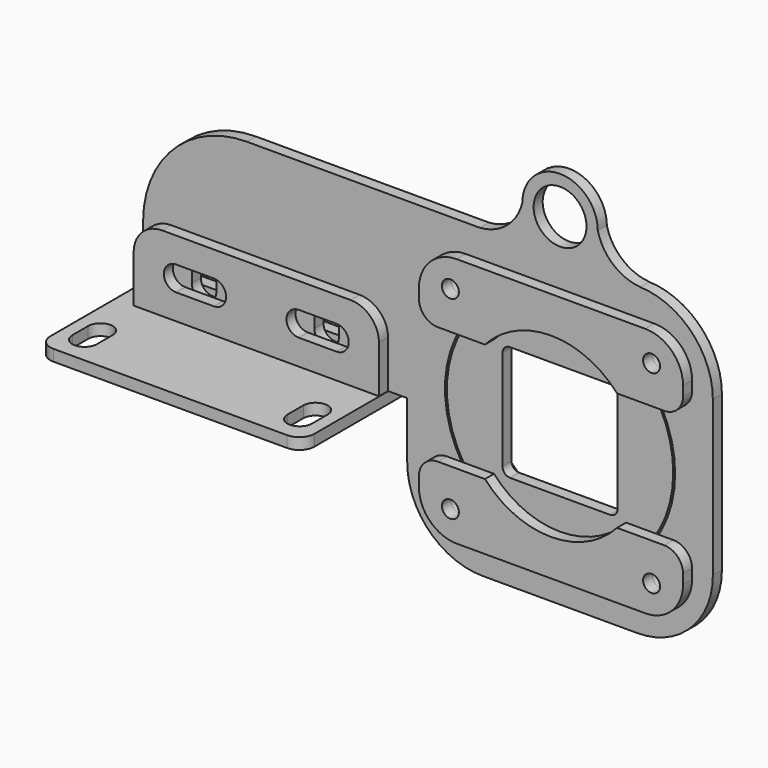
from build123d import *

# Parameters (mm, degrees)
F0_R      = 60
F1_DEPTH  = 6
F2_R      = 61
F2_R_2    = 14
F3_DEPTH  = 6
F4_R      = 4.5
F5_DEPTH  = 6
F6_R      = 4.5
F7_DEPTH  = 25
F8_R      = 4.5
F9_DEPTH  = 6
F11_DEPTH = 6
F13_DEPTH = 25
F15_DEPTH = 6
F17_DEPTH = 6


with BuildPart() as f1:
    # F0 (on Front) → F1 (new body)
    with BuildSketch(Plane.XZ):
        Circle(F0_R)
        with BuildLine():
            Line((-26.5, 30.5), (26.5, 30.5))
            ThreePointArc((26.5, 30.5), (29.3284271247, 29.3284271247), (30.5, 26.5))
            Line((30.5, 26.5), (30.5, -26.5))
            ThreePointArc((30.5, -26.5), (29.3284271247, -29.3284271247), (26.5, -30.5))
            Line((26.5, -30.5), (-26.5, -30.5))
            ThreePointArc((-26.5, -30.5), (-29.3284271247, -29.3284271247), (-30.5, -26.5))
            Line((-30.5, -26.5), (-30.5, 26.5))
            ThreePointArc((-30.5, 26.5), (-29.3284271247, 29.3284271247), (-26.5, 30.5))
        make_face(mode=Mode.SUBTRACT)
    extrude(amount=F1_DEPTH)


with BuildPart() as f3:
    # F2 (on face) → F3 (new body)
    with BuildSketch(Plane.XZ.offset(6)):
        with BuildLine():
            Line((-41, -81), (41, -81))
            ThreePointArc((41, -81), (69.2842712475, -69.2842712475), (81, -41))
            Line((81, -41), (81, 41))
            ThreePointArc((81, 41), (69.7476957532, 68.8131261975), (42.321500556, 80.9781644936))
            ThreePointArc((42.321500556, 80.9781644936), (42.4107748199, 80.9888816235), (42.5, 81))
            ThreePointArc((42.5, 81), (28.1554878166, 86.835444958), (20, 99.9999983537))
            ThreePointArc((20, 99.9999983537), (0, 119.9999983537), (-20, 99.9999983537))
            ThreePointArc((-20, 99.9999983537), (-28.1554878166, 86.835444958), (-42.5, 81))
            Line((-42.5, 81), (-81, 81))
            Line((-81, 81), (-166, 81))
            ThreePointArc((-166, 81), (-204.8908729653, 64.8908729653), (-221, 26))
            Line((-221, 26), (-221, -11))
            Line((-221, -11), (-81, -11))
            Line((-81, -11), (-81, -19))
            Line((-81, -19), (-81, -41))
            ThreePointArc((-81, -41), (-69.2842712475, -69.2842712475), (-41, -81))
        make_face()
        Circle(F2_R, mode=Mode.SUBTRACT)
        with Locations((0, 100)):
            Circle(F2_R_2, mode=Mode.SUBTRACT)
    extrude(amount=-F3_DEPTH)

    # F6 (on face) → F7 (cut)
    with BuildSketch(Plane.XZ.offset(6)):
        with Locations((-53.3166247904, 51.3687742827)):
            Circle(F6_R)
        with Locations((53.3166247904, 51.3687742827)):
            Circle(F6_R)
        with Locations((-53.3166247904, -51.3687742827)):
            Circle(F6_R)
        with Locations((53.3166247904, -51.3687742827)):
            Circle(F6_R)
    extrude(amount=-F7_DEPTH, mode=Mode.SUBTRACT)

    # F12 (on face) → F13 (cut)
    with BuildSketch(Plane.XZ.offset(6)):
        with BuildLine():
            ThreePointArc((-182.1999976635, 21.5), (-188.6999976635, 28), (-195.1999976635, 21.5))
            Line((-195.1999976635, 21.5), (-195.1999976635, 5.5))
            ThreePointArc((-195.1999976635, 5.5), (-188.6999976635, -1), (-182.1999976635, 5.5))
            Line((-182.1999976635, 5.5), (-182.1999976635, 21.5))
        make_face()
        with BuildLine():
            ThreePointArc((-117.1999976635, 21.5), (-123.6999976635, 28), (-130.1999976635, 21.5))
            Line((-130.1999976635, 21.5), (-130.1999976635, 5.5))
            ThreePointArc((-130.1999976635, 5.5), (-123.6999976635, -1), (-117.1999976635, 5.5))
            Line((-117.1999976635, 5.5), (-117.1999976635, 21.5))
        make_face()
    extrude(amount=-F13_DEPTH, mode=Mode.SUBTRACT)


with BuildPart() as f5:
    # F4 (on face) → F5 (new body)
    with BuildSketch(Plane.XZ.offset(6)):
        with BuildLine():
            ThreePointArc((35, -31.3687742827), (0, -47), (-35, -31.3687742827))
            Line((-35, -31.3687742827), (-60, -31.3687742827))
            ThreePointArc((-60, -31.3687742827), (-67.0710678119, -34.2977064709), (-70, -41.3687742827))
            Line((-70, -41.3687742827), (-70, -46.3687742827))
            ThreePointArc((-70, -46.3687742827), (-64.1421356237, -60.5109099064), (-50, -66.3687742827))
            Line((-50, -66.3687742827), (50, -66.3687742827))
            ThreePointArc((50, -66.3687742827), (64.1421356237, -60.5109099064), (70, -46.3687742827))
            Line((70, -46.3687742827), (70, -41.3687742827))
            ThreePointArc((70, -41.3687742827), (67.0710678119, -34.2977064709), (60, -31.3687742827))
            Line((60, -31.3687742827), (35, -31.3687742827))
        make_face()
        with Locations((-53.3166247904, -51.3687742827)):
            Circle(F4_R, mode=Mode.SUBTRACT)
        with Locations((53.3166247904, -51.3687742827)):
            Circle(F4_R, mode=Mode.SUBTRACT)
    extrude(amount=F5_DEPTH)


with BuildPart() as f5b:
    # F4 (on face) → F5, piece 2 (new body)
    with BuildSketch(Plane.XZ.offset(6)):
        with BuildLine():
            ThreePointArc((-70, 41.3687742827), (-67.0710678119, 34.2977064709), (-60, 31.3687742827))
            Line((-60, 31.3687742827), (-35, 31.3687742827))
            ThreePointArc((-35, 31.3687742827), (0, 47), (35, 31.3687742827))
            Line((35, 31.3687742827), (60, 31.3687742827))
            ThreePointArc((60, 31.3687742827), (67.0710678119, 34.2977064709), (70, 41.3687742827))
            Line((70, 41.3687742827), (70, 46.3687742827))
            ThreePointArc((70, 46.3687742827), (64.1421356237, 60.5109099064), (50, 66.3687742827))
            Line((50, 66.3687742827), (-50, 66.3687742827))
            ThreePointArc((-50, 66.3687742827), (-64.1421356237, 60.5109099064), (-70, 46.3687742827))
            Line((-70, 46.3687742827), (-70, 41.3687742827))
        make_face()
        with Locations((-53.3166247904, 51.3687742827)):
            Circle(F4_R, mode=Mode.SUBTRACT)
        with Locations((53.3166247904, 51.3687742827)):
            Circle(F4_R, mode=Mode.SUBTRACT)
    extrude(amount=F5_DEPTH)


with BuildPart() as f9:
    # F8 (on face) → F9 (new body)
    with BuildSketch(Plane(origin=(0, 0, 0), x_dir=(-1, 0, 0), z_dir=(0, 1, 0))):
        with BuildLine():
            Line((-60, 31.3687742827), (-35, 31.3687742827))
            ThreePointArc((-35, 31.3687742827), (0, 47), (35, 31.3687742827))
            Line((35, 31.3687742827), (60, 31.3687742827))
            ThreePointArc((60, 31.3687742827), (67.0710678119, 34.2977064709), (70, 41.3687742827))
            Line((70, 41.3687742827), (70, 46.3687742827))
            ThreePointArc((70, 46.3687742827), (64.1421356237, 60.5109099064), (50, 66.3687742827))
            Line((50, 66.3687742827), (-50, 66.3687742827))
            ThreePointArc((-50, 66.3687742827), (-64.1421356237, 60.5109099064), (-70, 46.3687742827))
            Line((-70, 46.3687742827), (-70, 41.3687742827))
            ThreePointArc((-70, 41.3687742827), (-67.0710678119, 34.2977064709), (-60, 31.3687742827))
        make_face()
        with Locations((-53.3166247904, 51.3687742827)):
            Circle(F8_R, mode=Mode.SUBTRACT)
        with Locations((53.3166247904, 51.3687742827)):
            Circle(F8_R, mode=Mode.SUBTRACT)
    extrude(amount=F9_DEPTH)


with BuildPart() as f9b:
    # F8 (on face) → F9, piece 2 (new body)
    with BuildSketch(Plane(origin=(0, 0, 0), x_dir=(-1, 0, 0), z_dir=(0, 1, 0))):
        with BuildLine():
            ThreePointArc((35, -31.3687742827), (0, -47), (-35, -31.3687742827))
            Line((-35, -31.3687742827), (-60, -31.3687742827))
            ThreePointArc((-60, -31.3687742827), (-67.0710678119, -34.2977064709), (-70, -41.3687742827))
            Line((-70, -41.3687742827), (-70, -46.3687742827))
            ThreePointArc((-70, -46.3687742827), (-64.1421356237, -60.5109099064), (-50, -66.3687742827))
            Line((-50, -66.3687742827), (50, -66.3687742827))
            ThreePointArc((50, -66.3687742827), (64.1421356237, -60.5109099064), (70, -46.3687742827))
            Line((70, -46.3687742827), (70, -41.3687742827))
            ThreePointArc((70, -41.3687742827), (67.0710678119, -34.2977064709), (60, -31.3687742827))
            Line((60, -31.3687742827), (35, -31.3687742827))
        make_face()
        with Locations((-53.3166247904, -51.3687742827)):
            Circle(F8_R, mode=Mode.SUBTRACT)
        with Locations((53.3166247904, -51.3687742827)):
            Circle(F8_R, mode=Mode.SUBTRACT)
    extrude(amount=F9_DEPTH)


with BuildPart() as f11:
    # F10 (on face) → F11 (new body)
    with BuildSketch(Plane.XZ.offset(6)):
        with BuildLine():
            Line((-221.1999976635, -11), (-91.1999976635, -11))
            Line((-91.1999976635, -11), (-91.1999976635, 14))
            ThreePointArc((-91.1999976635, 14), (-95.5933959457, 24.6066017178), (-106.1999976635, 29))
            Line((-106.1999976635, 29), (-206.1999976635, 29))
            ThreePointArc((-206.1999976635, 29), (-216.8065993813, 24.6066017178), (-221.1999976635, 14))
            Line((-221.1999976635, 14), (-221.1999976635, -11))
        make_face()
        with BuildLine():
            Line((-198.6999976635, 15.5), (-178.6999976635, 15.5))
            ThreePointArc((-178.6999976635, 15.5), (-172.1999976635, 9), (-178.6999976635, 2.5))
            Line((-178.6999976635, 2.5), (-198.6999976635, 2.5))
            ThreePointArc((-198.6999976635, 2.5), (-205.1999976635, 9), (-198.6999976635, 15.5))
        make_face(mode=Mode.SUBTRACT)
        with BuildLine():
            ThreePointArc((-133.6999976635, 2.5), (-140.1999976635, 9), (-133.6999976635, 15.5))
            Line((-133.6999976635, 15.5), (-113.6999976635, 15.5))
            ThreePointArc((-113.6999976635, 15.5), (-107.1999976635, 9), (-113.6999976635, 2.5))
            Line((-113.6999976635, 2.5), (-133.6999976635, 2.5))
        make_face(mode=Mode.SUBTRACT)
    extrude(amount=F11_DEPTH)


with BuildPart() as f15:
    # F14 (on face) → F15 (new body)
    with BuildSketch(Plane(origin=(0, 0, 0), x_dir=(-1, 0, 0), z_dir=(0, 1, 0))):
        with BuildLine():
            ThreePointArc((106.1999976635, 29), (95.5933959457, 24.6066017178), (91.1999976635, 14))
            Line((91.1999976635, 14), (91.1999976635, -11))
            Line((91.1999976635, -11), (221.1999976635, -11))
            Line((221.1999976635, -11), (221.1999976635, 14))
            ThreePointArc((221.1999976635, 14), (216.8065993813, 24.6066017178), (206.1999976635, 29))
            Line((206.1999976635, 29), (106.1999976635, 29))
        make_face()
        with BuildLine():
            ThreePointArc((113.6999976635, 2.5), (107.1999976635, 9), (113.6999976635, 15.5))
            Line((113.6999976635, 15.5), (133.6999976635, 15.5))
            ThreePointArc((133.6999976635, 15.5), (140.1999976635, 9), (133.6999976635, 2.5))
            Line((133.6999976635, 2.5), (113.6999976635, 2.5))
        make_face(mode=Mode.SUBTRACT)
        with BuildLine():
            ThreePointArc((178.6999976635, 2.5), (172.1999976635, 9), (178.6999976635, 15.5))
            Line((178.6999976635, 15.5), (198.6999976635, 15.5))
            ThreePointArc((198.6999976635, 15.5), (205.1999976635, 9), (198.6999976635, 2.5))
            Line((198.6999976635, 2.5), (178.6999976635, 2.5))
        make_face(mode=Mode.SUBTRACT)
    extrude(amount=F15_DEPTH)


with BuildPart() as f17:
    # F16 (on face) → F17 (new body)
    with BuildSketch(Plane(origin=(0, 0, -11), x_dir=(1, 0, 0), z_dir=(0, 0, -1))):
        with BuildLine():
            ThreePointArc((-223, 63), (-228.6568542495, 60.6568542495), (-231, 55))
            Line((-231, 55), (-231, -49))
            ThreePointArc((-231, -49), (-228.6568542495, -54.6568542495), (-223, -57))
            Line((-223, -57), (-99, -57))
            ThreePointArc((-99, -57), (-93.3431457505, -54.6568542495), (-91, -49))
            Line((-91, -49), (-91, 55))
            ThreePointArc((-91, 55), (-93.3431457505, 60.6568542495), (-99, 63))
            Line((-99, 63), (-223, 63))
        make_face()
        with BuildLine():
            Line((-224.5, -42.5), (-224.5, -32))
            ThreePointArc((-224.5, -32), (-218, -25.5), (-211.5, -32))
            Line((-211.5, -32), (-211.5, -42.5))
            ThreePointArc((-211.5, -42.5), (-218, -49), (-224.5, -42.5))
        make_face(mode=Mode.SUBTRACT)
        with BuildLine():
            Line((-110.5, -42.5), (-110.5, -32))
            ThreePointArc((-110.5, -32), (-104, -25.5), (-97.5, -32))
            Line((-97.5, -32), (-97.5, -42.5))
            ThreePointArc((-97.5, -42.5), (-104, -49), (-110.5, -42.5))
        make_face(mode=Mode.SUBTRACT)
        with BuildLine():
            Line((-224.5, 38), (-224.5, 48.5))
            ThreePointArc((-224.5, 48.5), (-218, 55), (-211.5, 48.5))
            Line((-211.5, 48.5), (-211.5, 38))
            ThreePointArc((-211.5, 38), (-218, 31.5), (-224.5, 38))
        make_face(mode=Mode.SUBTRACT)
        with BuildLine():
            Line((-110.5, 38), (-110.5, 48.5))
            ThreePointArc((-110.5, 48.5), (-104, 55), (-97.5, 48.5))
            Line((-97.5, 48.5), (-97.5, 38))
            ThreePointArc((-97.5, 38), (-104, 31.5), (-110.5, 38))
        make_face(mode=Mode.SUBTRACT)
    extrude(amount=F17_DEPTH)


solid = Compound([f1.part, f3.part, f5.part, f5b.part, f9.part, f9b.part, f11.part, f15.part, f17.part])
